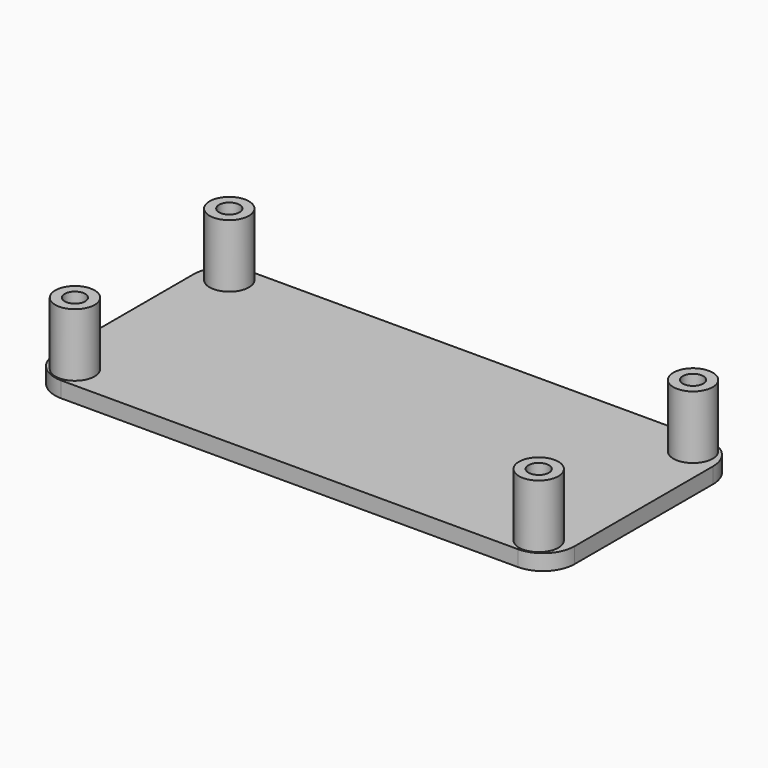
from build123d import *

# Parameters (mm, degrees)
F1_W     = 83.82
F1_H     = 38.1
F1_R     = 3.175
F1_R_2   = 1.651
F2_DEPTH = 2.54
F3_DEPTH = 10.16
F4_R     = 5.08


with BuildPart() as f2:
    # F1 (on Top) → F2 (new body)
    with BuildSketch(Plane.XY):
        Rectangle(F1_W, F1_H)
        with Locations((-37.4015, -15.5575)):
            Circle(F1_R, mode=Mode.SUBTRACT)
        with Locations((37.4015, -15.5575)):
            Circle(F1_R, mode=Mode.SUBTRACT)
        with Locations((-37.4015, 15.5575)):
            Circle(F1_R, mode=Mode.SUBTRACT)
        with Locations((37.4015, 15.5575)):
            Circle(F1_R, mode=Mode.SUBTRACT)
        with Locations((-37.4015, 15.5575)):
            Circle(F1_R)
        with Locations((-37.4015, 15.5575)):
            Circle(F1_R_2, mode=Mode.SUBTRACT)
        with Locations((37.4015, -15.5575)):
            Circle(F1_R)
        with Locations((37.4015, -15.5575)):
            Circle(F1_R_2, mode=Mode.SUBTRACT)
        with Locations((37.4015, 15.5575)):
            Circle(F1_R)
        with Locations((37.4015, 15.5575)):
            Circle(F1_R_2, mode=Mode.SUBTRACT)
        with Locations((-37.4015, -15.5575)):
            Circle(F1_R)
        with Locations((-37.4015, -15.5575)):
            Circle(F1_R_2, mode=Mode.SUBTRACT)
        with Locations((37.4015, 15.5575)):
            Circle(F1_R_2)
        with Locations((-37.4015, 15.5575)):
            Circle(F1_R_2)
        with Locations((-37.4015, -15.5575)):
            Circle(F1_R_2)
        with Locations((37.4015, -15.5575)):
            Circle(F1_R_2)
    extrude(amount=-F2_DEPTH)

    # F1 (on Top) → F3 (join)
    with BuildSketch(Plane.XY):
        with Locations((-37.4015, -15.5575)):
            Circle(F1_R)
        with Locations((-37.4015, -15.5575)):
            Circle(F1_R_2, mode=Mode.SUBTRACT)
        with Locations((-37.4015, 15.5575)):
            Circle(F1_R)
        with Locations((-37.4015, 15.5575)):
            Circle(F1_R_2, mode=Mode.SUBTRACT)
        with Locations((37.4015, -15.5575)):
            Circle(F1_R)
        with Locations((37.4015, -15.5575)):
            Circle(F1_R_2, mode=Mode.SUBTRACT)
        with Locations((37.4015, 15.5575)):
            Circle(F1_R)
        with Locations((37.4015, 15.5575)):
            Circle(F1_R_2, mode=Mode.SUBTRACT)
    extrude(amount=F3_DEPTH)

    # F4
    f4_edges = [f2.edges().sort_by_distance(p)[0] for p in [
        (-41.91, -19.05, -1.27),
        (41.91, -19.05, -1.27),
        (41.91, 19.05, -1.27),
        (-41.91, 19.05, -1.27),
    ]]
    fillet(f4_edges, radius=F4_R)


solid = f2.part
